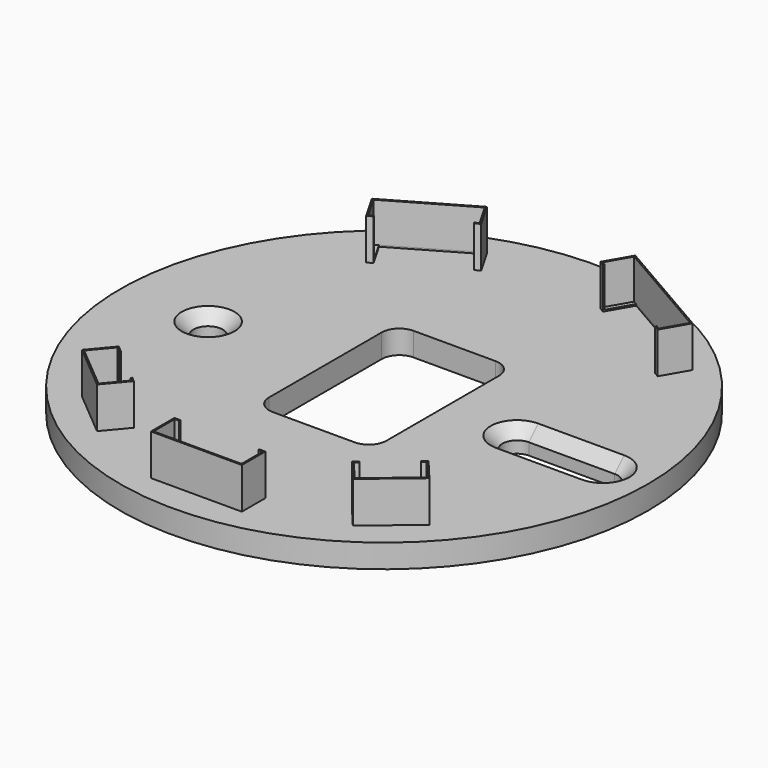
from build123d import *

# Parameters (mm, degrees)
F0_R      = 45
F0_R_2    = 2.5
F1_DEPTH  = 2
F2_SIZE2  = 2
F2_SIZE   = 2
F3_SIZE2  = 2
F3_SIZE   = 2
F9_DEPTH  = 7
F6_W      = 15.5
F6_H      = 5
F10_T     = -0.25
F10_2_T   = -0.25
F10_3_T   = -0.25
F10_4_T   = -0.25
F10_5_T   = -0.25
F11_W     = 13.5
F11_H     = 7
F12_DEPTH = 4.75
F13_W     = 19
F13_H     = 7
F14_DEPTH = 4.75
F15_W     = 8.2
F15_H     = 7
F16_DEPTH = 4.75
F17_W     = 13.5
F17_H     = 7
F18_DEPTH = 4.75
F19_W     = 7.8331888452
F19_H     = 7
F20_DEPTH = 4.75
F22_DEPTH = 4.001


with BuildPart() as f1:
    # F0 (on Top) → F1 (new body, symmetric)
    with BuildSketch(Plane.XY):
        Circle(F0_R)
        with Locations((-30, 0)):
            Circle(F0_R_2, mode=Mode.SUBTRACT)
        with BuildLine():
            ThreePointArc((22.6785261184, -2.5), (20.1785261184, 0), (22.6785261184, 2.5))
            Line((22.6785261184, 2.5), (37.3214738816, 2.5))
            ThreePointArc((37.3214738816, 2.5), (39.8214738816, 0), (37.3214738816, -2.5))
            Line((37.3214738816, -2.5), (22.6785261184, -2.5))
        make_face(mode=Mode.SUBTRACT)
    extrude(amount=F1_DEPTH, both=True)

    # F2
    f2_edges = [f1.edges().sort_by_distance(p)[0] for p in [
        (-32.5, 0, 2),
    ]]
    chamfer(f2_edges, length=F2_SIZE, length2=F2_SIZE2)

    # F3
    f3_edges = [f1.edges().sort_by_distance(p)[0] for p in [
        (20.178526, 0, 2),
    ]]
    chamfer(f3_edges, length=F3_SIZE, length2=F3_SIZE2)

    # F21 (on face) → F22 (cut, through all)
    with BuildSketch(Plane.XY.offset(2)):
        with BuildLine():
            Line((7, 15), (-7, 15))
            ThreePointArc((-7, 15), (-9.1213203436, 14.1213203436), (-10, 12))
            Line((-10, 12), (-10, -12))
            ThreePointArc((-10, -12), (-9.1213203436, -14.1213203436), (-7, -15))
            Line((-7, -15), (7, -15))
            ThreePointArc((7, -15), (9.1213203436, -14.1213203436), (10, -12))
            Line((10, -12), (10, 12))
            ThreePointArc((10, 12), (9.1213203436, 14.1213203436), (7, 15))
        make_face()
    extrude(amount=-F22_DEPTH, mode=Mode.SUBTRACT)


with BuildPart() as f9:
    # F4 (on face) → F9 (new body)
    with BuildSketch(Plane.XY.offset(2)):
        Polygon((26.5932667397, 25.0608891325), (29.0932667397, 29.3910161514), (10.9067332603, 39.8910161514), (8.4067332603, 35.5608891325), align=None)
    extrude(amount=F9_DEPTH)

    # F10#2
    f10_2_openings = [f9.faces().sort_by_distance(p)[0] for p in [
        (18.75, 32.475953, 9),
    ]]
    offset(amount=F10_2_T, openings=f10_2_openings)

    # F13 (on face) → F14 (cut, through all)
    with BuildSketch(Plane(origin=(17.5, 30.3108891325, 0), x_dir=(0.8660254038, -0.5, 0), z_dir=(-0.5, -0.8660254038, 0))):
        with Locations((0, 5.5)):
            Rectangle(F13_W, F13_H)
    extrude(amount=-F14_DEPTH, mode=Mode.SUBTRACT)


with BuildPart() as f9b:
    # F5 (on face) → F9, piece 2 (new body)
    with BuildSketch(Plane.XY.offset(2)):
        Polygon((-10.7883031207, 34.1858891325), (-13.2883031207, 38.5160161514), (-26.7116968793, 30.7660161514), (-24.2116968793, 26.4358891325), align=None)
    extrude(amount=F9_DEPTH)

    # F10
    f10_openings = [f9b.faces().sort_by_distance(p)[0] for p in [
        (-18.75, 32.475953, 9),
    ]]
    offset(amount=F10_T, openings=f10_openings)

    # F11 (on face) → F12 (cut, through all)
    with BuildSketch(Plane(origin=(-17.5, 30.3108891325, 0), x_dir=(0.8660254038, 0.5, 0), z_dir=(0.5, -0.8660254038, 0))):
        with Locations((0, 5.5)):
            Rectangle(F11_W, F11_H)
    extrude(amount=-F12_DEPTH, mode=Mode.SUBTRACT)


with BuildPart() as f9c:
    # F6 (on face) → F9, piece 3 (new body)
    with BuildSketch(Plane.XY.offset(2)):
        with Locations((0, -37.5)):
            Rectangle(F6_W, F6_H)
    extrude(amount=F9_DEPTH)

    # F10#4
    f10_4_openings = [f9c.faces().sort_by_distance(p)[0] for p in [
        (0, -37.5, 9),
    ]]
    offset(amount=F10_4_T, openings=f10_4_openings)

    # F17 (on face) → F18 (cut, through all)
    with BuildSketch(Plane(origin=(0, -35, 0), x_dir=(-1, 0, 0), z_dir=(0, 1, 0))):
        with Locations((0, 5.5)):
            Rectangle(F17_W, F17_H)
    extrude(amount=-F18_DEPTH, mode=Mode.SUBTRACT)


with BuildPart() as f9d:
    # F7 (on face) → F9, piece 4 (new body)
    with BuildSketch(Plane.XY.offset(2)):
        Polygon((-26.4043929989, -23.5333386998), (-29.6183310474, -27.3635609154), (-21.8046777276, -33.9199945342), (-18.5907396791, -30.0897723186), align=None)
    extrude(amount=F9_DEPTH)

    # F10#5
    f10_5_openings = [f9d.faces().sort_by_distance(p)[0] for p in [
        (-24.104535, -28.726667, 9),
    ]]
    offset(amount=F10_5_T, openings=f10_5_openings)

    # F19 (on face) → F20 (cut, through all)
    with BuildSketch(Plane(origin=(-22.497566339, -26.8115555092, 0), x_dir=(-0.7660444431, 0.6427876097, 0), z_dir=(0.6427876097, 0.7660444431, 0))):
        with Locations((-0.1834055774, 5.5)):
            Rectangle(F19_W, F19_H)
    extrude(amount=-F20_DEPTH, mode=Mode.SUBTRACT)


with BuildPart() as f9e:
    # F8 (on face) → F9, piece 5 (new body)
    with BuildSketch(Plane.XY.offset(2)):
        Polygon((18.5907396791, -30.0897723186), (21.8046777276, -33.9199945342), (29.6183310474, -27.3635609154), (26.4043929989, -23.5333386998), align=None)
    extrude(amount=F9_DEPTH)

    # F10#3
    f10_3_openings = [f9e.faces().sort_by_distance(p)[0] for p in [
        (24.104535, -28.726667, 9),
    ]]
    offset(amount=F10_3_T, openings=f10_3_openings)

    # F15 (on face) → F16 (cut, through all)
    with BuildSketch(Plane(origin=(22.497566339, -26.8115555092, 0), x_dir=(-0.7660444431, -0.6427876097, 0), z_dir=(-0.6427876097, 0.7660444431, 0))):
        with Locations((0, 5.5)):
            Rectangle(F15_W, F15_H)
    extrude(amount=-F16_DEPTH, mode=Mode.SUBTRACT)


solid = Compound([f1.part, f9.part, f9b.part, f9c.part, f9d.part, f9e.part])
